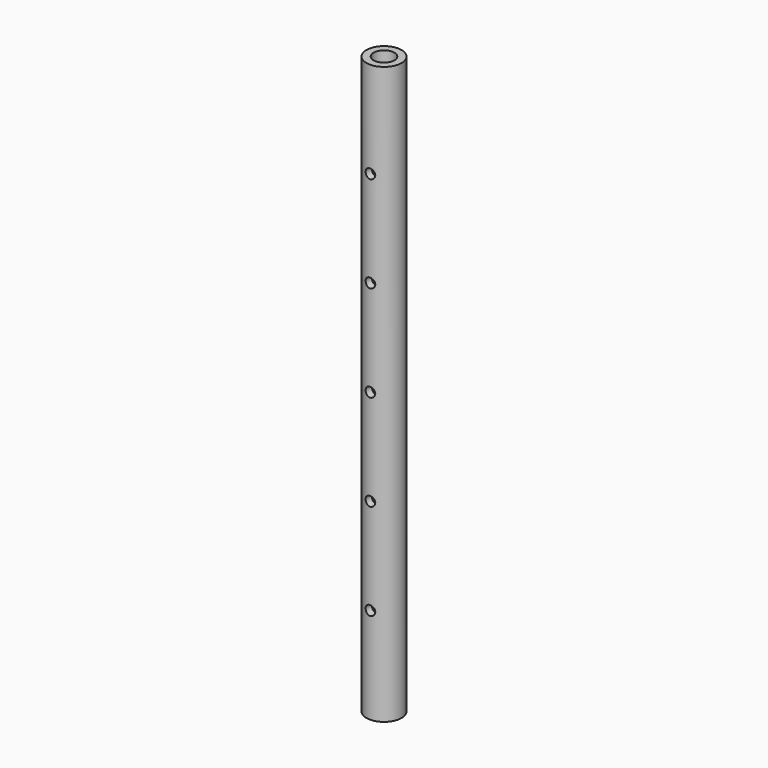
from build123d import *

# Parameters (mm, degrees)
F0_R          = 6.985
F0_R_2        = 4.1275
F1_DEPTH      = 228.6
F2_R          = 1.905
F3_DEPTH      = 25.4
F3_DEPTH_BACK = 25.4


with BuildPart() as f1:
    # F0 (on Top) → F1 (new body)
    with BuildSketch(Plane.XY):
        Circle(F0_R)
        Circle(F0_R_2, mode=Mode.SUBTRACT)
    extrude(amount=F1_DEPTH)

    # F2 (on Front) → F3 (cut, two sides)
    with BuildSketch(Plane.XZ) as f3_sk:
        with Locations((0, 38.1)):
            Circle(F2_R)
        with Locations((0, 76.2)):
            Circle(F2_R)
        with Locations((0, 114.3)):
            Circle(F2_R)
        with Locations((0, 152.4)):
            Circle(F2_R)
        with Locations((0, 190.5)):
            Circle(F2_R)
    extrude(amount=-F3_DEPTH, mode=Mode.SUBTRACT)
    extrude(f3_sk.sketch, amount=F3_DEPTH_BACK, mode=Mode.SUBTRACT)


solid = f1.part
